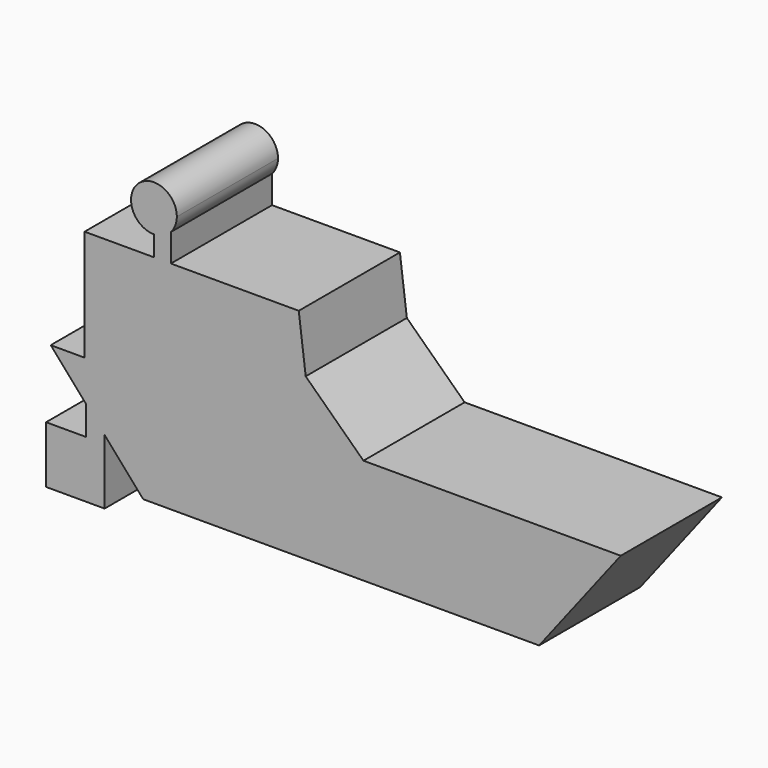
from build123d import *

# Parameters (mm, degrees)
F1_DEPTH = 25.4


with BuildPart() as f1:
    # F0 (on Front) → F1 (new body)
    with BuildSketch(Plane.XZ):
        Polygon((-49.2131151259, 21.2018769234), (-56.0224764049, 21.2018769234), (-48.9432296743, 13.1197362788), (-45.1893992722, 8.8341129038), (-37.4514907598, 0), (42.0942343771, 0), (58.4986023605, 21.2018769234), (6.8093636073, 21.2018769234), (-3.4046829678, 21.2018769234), align=None)
        Polygon((-45.1893992722, 8.8341129038), (-48.9432296743, 13.1197362788), (-48.9432296743, 7.2736367583), (-56.9510273635, 7.2736367583), (-56.9510273635, -4.1784718633), (-45.1893992722, -4.1784718633), align=None)
        Polygon((-49.2131151259, 43.4870608151), (-49.2131151259, 21.2018769234), (-3.4046829678, 21.2018769234), (-4.7975066118, 32.3444688693), (-6.1903302558, 43.4870608151), (-31.8801924586, 43.4870608151), (-35.2848768234, 43.4870608151), align=None)
        Polygon((-4.7975066118, 32.3444688693), (-3.4046829678, 21.2018769234), (6.8093636073, 21.2018769234), align=None)
        with BuildLine():
            Line((-35.2848768234, 47.5522301825), (-35.2848768234, 43.4870608151))
            Line((-35.2848768234, 43.4870608151), (-31.8801924586, 43.4870608151))
            Line((-31.8801924586, 43.4870608151), (-31.8801924586, 49.0583635867))
            ThreePointArc((-31.8801924586, 49.0583635867), (-33.4234047275, 47.9455763399), (-35.2848768234, 47.5522301825))
        make_face()
        with BuildLine():
            ThreePointArc((-30.6835867198, 52.1535202861), (-38.5384802579, 55.4071237206), (-35.2848768234, 47.5522301825))
            Line((-35.2848768234, 47.5522301825), (-35.2848768234, 52.1535202861))
            Line((-35.2848768234, 52.1535202861), (-31.8801924586, 52.1535202861))
            Line((-31.8801924586, 52.1535202861), (-31.8801924586, 49.0583635867))
            ThreePointArc((-31.8801924586, 49.0583635867), (-30.9931515822, 50.4943141289), (-30.6835867198, 52.1535202861))
        make_face()
        with BuildLine():
            Line((-35.2848768234, 52.1535202861), (-35.2848768234, 47.5522301825))
            ThreePointArc((-35.2848768234, 47.5522301825), (-33.4234047275, 47.9455763399), (-31.8801924586, 49.0583635867))
            Line((-31.8801924586, 49.0583635867), (-31.8801924586, 52.1535202861))
            Line((-31.8801924586, 52.1535202861), (-35.2848768234, 52.1535202861))
        make_face()
    extrude(amount=F1_DEPTH)


solid = f1.part
